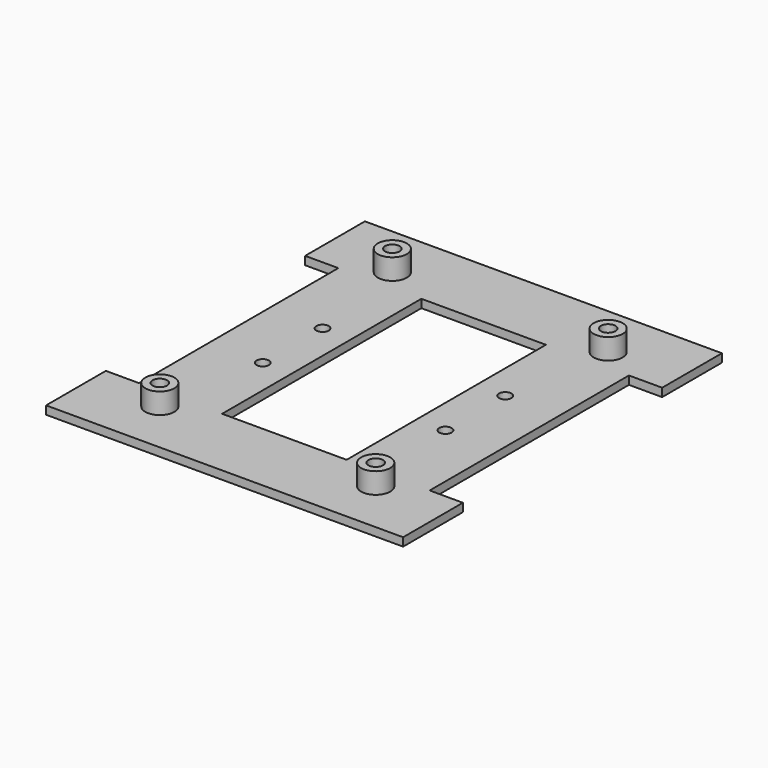
from build123d import *

# Parameters (mm, degrees)
F0_R     = 3.5
F0_R_2   = 1.5
F0_W     = 30
F0_H     = 60
F1_DEPTH = 2
F0_R_3   = 1.75
F2_DEPTH = 7


with BuildPart() as f1:
    # F0 (on Top) → F1 (new body)
    with BuildSketch(Plane.XY):
        Polygon((43, 30), (43, 48), (35, 48), (-35, 48), (-43, 48), (-43, 30), (-35, 30), (-35, 0), (-35, -30), (-43, -30), (-43, -48), (-35, -48), (35, -48), (43, -48), (43, -30), (35, -30), (35, 0), (35, 30), align=None)
        with Locations((-26, -35)):
            Circle(F0_R, mode=Mode.SUBTRACT)
        with Locations((-22, -9)):
            Circle(F0_R_2, mode=Mode.SUBTRACT)
        with Locations((26, -35)):
            Circle(F0_R, mode=Mode.SUBTRACT)
        with Locations((22, -9)):
            Circle(F0_R_2, mode=Mode.SUBTRACT)
        with Locations((-22, 9)):
            Circle(F0_R_2, mode=Mode.SUBTRACT)
        with Locations((-26, 35)):
            Circle(F0_R, mode=Mode.SUBTRACT)
        Rectangle(F0_W, F0_H, mode=Mode.SUBTRACT)
        with Locations((22, 9)):
            Circle(F0_R_2, mode=Mode.SUBTRACT)
        with Locations((26, 35)):
            Circle(F0_R, mode=Mode.SUBTRACT)
    extrude(amount=F1_DEPTH)

    # F0 (on Top) → F2 (join)
    with BuildSketch(Plane.XY):
        with Locations((-26, 35)):
            Circle(F0_R)
        with Locations((-26, 35)):
            Circle(F0_R_3, mode=Mode.SUBTRACT)
        with Locations((26, 35)):
            Circle(F0_R)
        with Locations((26, 35)):
            Circle(F0_R_3, mode=Mode.SUBTRACT)
        with Locations((26, -35)):
            Circle(F0_R)
        with Locations((26, -35)):
            Circle(F0_R_3, mode=Mode.SUBTRACT)
        with Locations((-26, -35)):
            Circle(F0_R)
        with Locations((-26, -35)):
            Circle(F0_R_3, mode=Mode.SUBTRACT)
    extrude(amount=F2_DEPTH)


solid = f1.part
